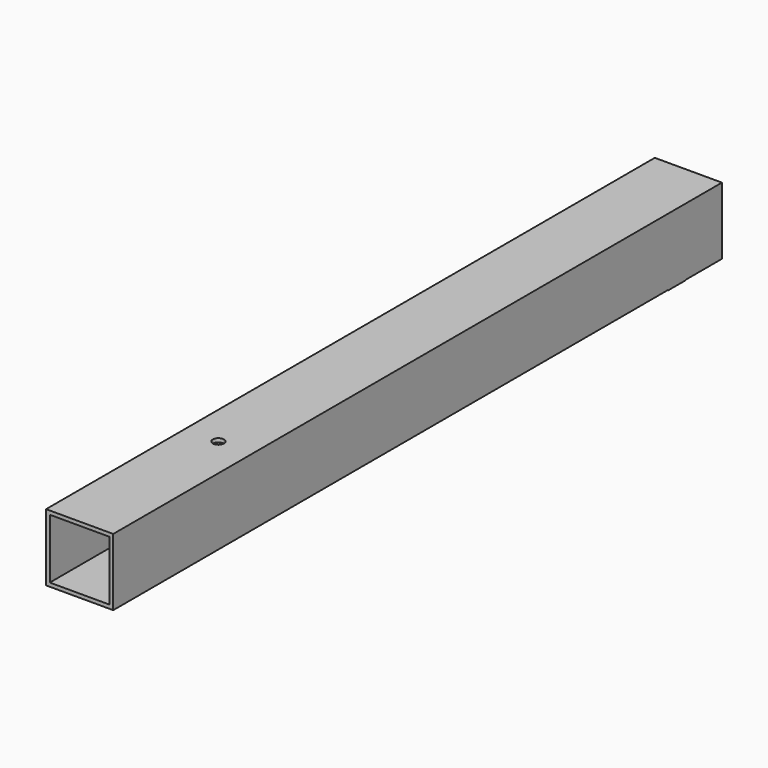
from build123d import *

# Parameters (mm, degrees)
F0_W     = 38.1
F0_H     = 38.1
F0_W_2   = 33.8836
F0_H_2   = 33.8836
F1_DEPTH = 431.8
F2_W     = 38.1
F2_H     = 12.7
F3_DEPTH = 0.254
F4_R     = 3.175
F5_DEPTH = 76.2


with BuildPart() as f1:
    # F0 (on Front) → F1 (new body)
    with BuildSketch(Plane.XZ):
        with Locations((-45.121367, 19.295737)):
            Rectangle(F0_W, F0_H)
        with Locations((-45.121367, 19.295737)):
            Rectangle(F0_W_2, F0_H_2, mode=Mode.SUBTRACT)
    extrude(amount=F1_DEPTH)

    # F2 (on face) → F3 (join)
    with BuildSketch(Plane(origin=(0, 0, 0.245737), x_dir=(1, 0, 0), z_dir=(0, 0, -1))):
        with Locations((-45.121367, 31.75)):
            Rectangle(F2_W, F2_H)
    extrude(amount=F3_DEPTH)

    # F4 (on face) → F5 (cut)
    with BuildSketch(Plane(origin=(0, 0, 0.245737), x_dir=(1, 0, 0), z_dir=(0, 0, -1))):
        with Locations((-45.121367, 333.375)):
            Circle(F4_R)
    extrude(amount=-F5_DEPTH, mode=Mode.SUBTRACT)


solid = f1.part
